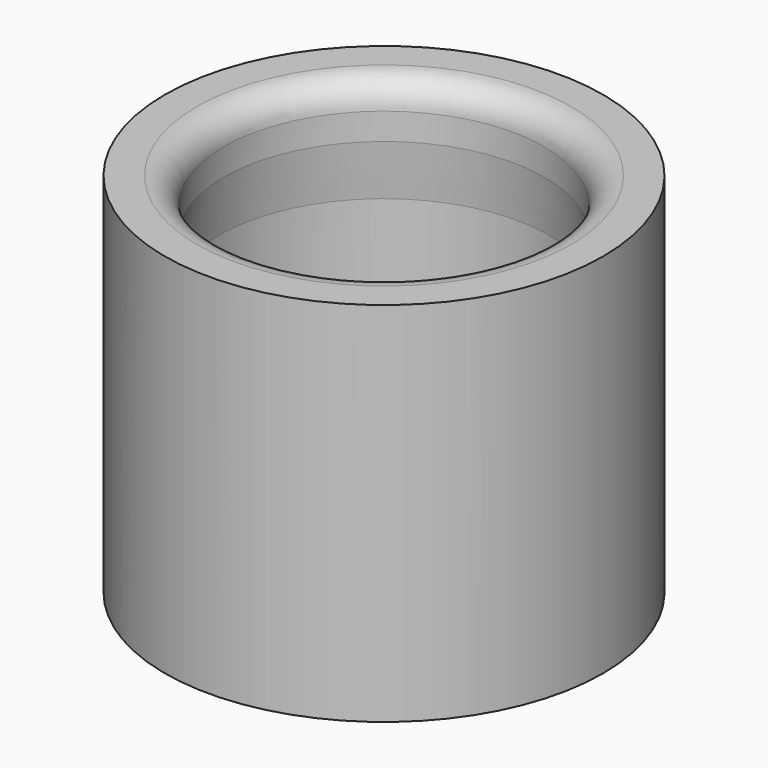
from build123d import *

# Parameters (mm, degrees)
F2_R = 1


with BuildPart() as f1:
    # F0 (on Front) → F1 (revolve)
    with BuildSketch(Plane.XZ):
        Polygon((-8.2, 0), (0, 0), (0, 2), (-6.2, 2), (-6.2, 9.75), (-6, 11.739975), (-6, 13.739975), (-8.2, 13.739975), align=None)
    revolve(axis=Axis((0, 0, 1), (0, 0, -1)))

    # F2
    f2_edges = [f1.edges().sort_by_distance(p)[0] for p in [
        (6, 0, 13.739975),
    ]]
    fillet(f2_edges, radius=F2_R)


solid = f1.part
